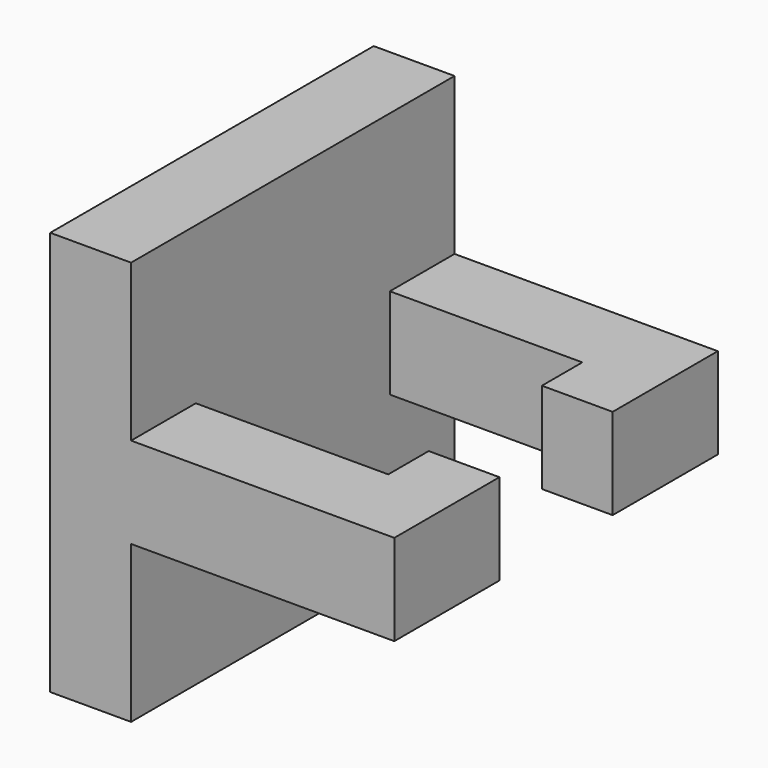
from build123d import *

# Parameters (mm, degrees)
F0_W     = 40
F0_H     = 40
F1_DEPTH = 40
F4_DEPTH = 40
F3_W     = 32
F3_H     = 15.5
F5_DEPTH = 40
F6_DEPTH = 40


with BuildPart() as f1:
    # F0 (on Top) → F1 (new body)
    with BuildSketch(Plane.XY):
        Rectangle(F0_W, F0_H)
    extrude(amount=-F1_DEPTH)

    # F2 (on face) → F4 (cut)
    with BuildSketch(Plane.XY):
        Polygon((20, 20), (14.041499, 20), (14.041499, 7), (7.041499, 7), (7.041499, 12), (-12, 12), (-12, -12), (7.041499, -12), (7.041499, -7), (14.041499, -7), (14.041499, -20), (20, -20), align=None)
    extrude(amount=-F4_DEPTH, mode=Mode.SUBTRACT)

    # F3 (on face) → F5 (cut)
    with BuildSketch(Plane.XZ.offset(20)):
        with Locations((4, -7.75)):
            Rectangle(F3_W, F3_H)
    extrude(amount=-F5_DEPTH, mode=Mode.SUBTRACT)

    # F3 (on face) → F6 (cut)
    with BuildSketch(Plane.XZ.offset(20)):
        with Locations((4, -32.25)):
            Rectangle(F3_W, F3_H)
    extrude(amount=-F6_DEPTH, mode=Mode.SUBTRACT)


solid = f1.part
